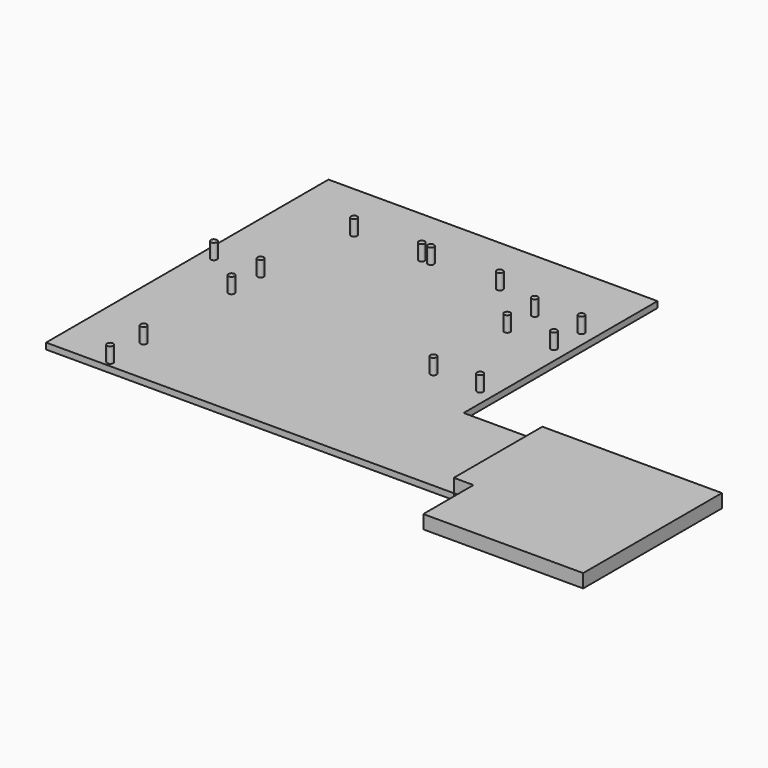
from build123d import *

# Parameters (mm, degrees)
F1_DEPTH = 50
F3_DEPTH = 110
F4_R     = 25
F5_DEPTH = 125


with BuildPart() as f1:
    # F0 (on Top) → F1 (new body)
    with BuildSketch(Plane.XY):
        Polygon((-609.995488, 612.05135), (-609.995488, -2257.94865), (2065.004512, -2257.94865), (2705.004512, -2257.94865), (2705.004512, -1357.94865), (2065.004512, -1357.94865), (2065.004512, 612.05135), align=None)
    extrude(amount=-F1_DEPTH)

    # F4 (on face) → F5 (join)
    with BuildSketch(Plane.XY):
        with Locations((-7.995488, 120.05135)):
            Circle(F4_R)
        with Locations((-119.995488, -689.94865)):
            Circle(F4_R)
        with Locations((-499.995488, -689.94865)):
            Circle(F4_R)
        with Locations((-119.995488, -984.94865)):
            Circle(F4_R)
        with Locations((617.004512, 120.05135)):
            Circle(F4_R)
        with Locations((542.004512, 120.05135)):
            Circle(F4_R)
        with Locations((1177.004512, 120.05135)):
            Circle(F4_R)
        with Locations((1577.004512, -24.94865)):
            Circle(F4_R)
        with Locations((1577.004512, -304.94865)):
            Circle(F4_R)
        with Locations((-124.995488, -1872.94865)):
            Circle(F4_R)
        with Locations((-124.995488, -2212.94865)):
            Circle(F4_R)
        with Locations((1957.004512, -304.94865)):
            Circle(F4_R)
        with Locations((1957.004512, -24.94865)):
            Circle(F4_R)
        with Locations((1957.004512, -1054.94865)):
            Circle(F4_R)
        with Locations((1577.004512, -1054.94865)):
            Circle(F4_R)
    extrude(amount=F5_DEPTH)


with BuildPart() as f3:
    # F2 (on face) → F3 (new body)
    with BuildSketch(Plane.XY):
        Polygon((2705.004512, -1357.94865), (2705.004512, -2257.94865), (2865.004512, -2257.94865), (2865.004512, -2767.94865), (4165.004512, -2767.94865), (4165.004512, -1357.94865), align=None)
    extrude(amount=F3_DEPTH)


solid = Compound([f1.part, f3.part])
